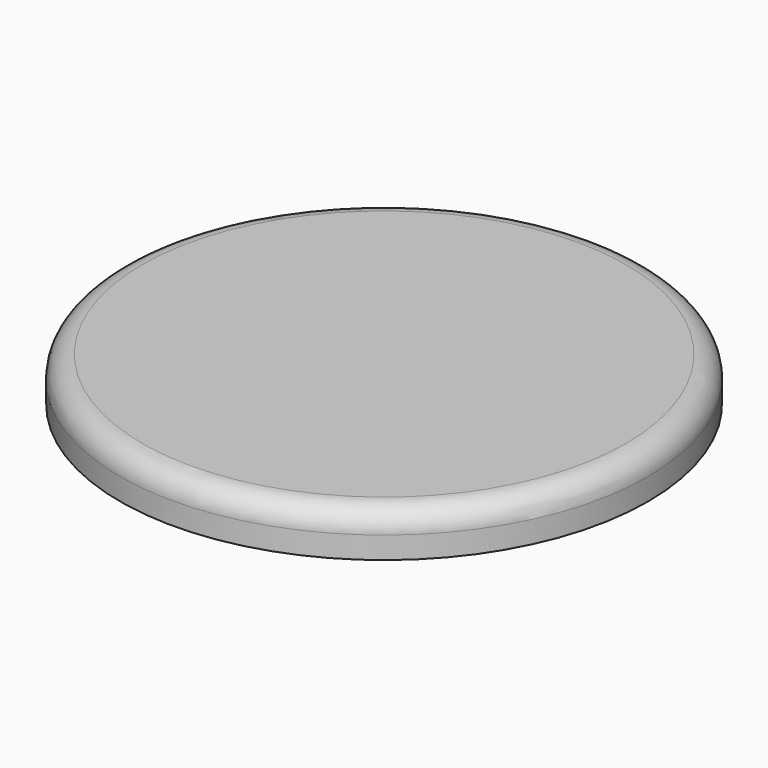
from build123d import *

# Parameters (mm, degrees)
F0_W     = 12
F0_H     = 2
F2_R     = 1
F3_R     = 5.5
F4_DEPTH = 0.5
F5_R     = 4.025
F6_DEPTH = 3
F7_R     = 1


with BuildPart() as f1:
    # F0 (on Front) → F1 (revolve)
    with BuildSketch(Plane.XZ):
        with Locations((6, 1)):
            Rectangle(F0_W, F0_H)
    revolve(axis=Axis((0, 0, 1), (0, 0, 1)))

    # F2
    f2_edges = [f1.edges().sort_by_distance(p)[0] for p in [
        (-12, 0, 2),
    ]]
    fillet(f2_edges, radius=F2_R)

    # F3 (on face) → F4 (join)
    with BuildSketch(Plane(origin=(0, 0, 0), x_dir=(1, 0, 0), z_dir=(0, 0, -1))):
        Circle(F3_R)
    extrude(amount=F4_DEPTH)

    # F5 (on face) → F6 (join)
    with BuildSketch(Plane(origin=(0, 0, -0.5), x_dir=(1, 0, 0), z_dir=(0, 0, -1))):
        Circle(F5_R)
    extrude(amount=F6_DEPTH)

    # F7
    f7_edges = [f1.edges().sort_by_distance(p)[0] for p in [
        (-4.025, 0, -3.5),
    ]]
    fillet(f7_edges, radius=F7_R)


solid = f1.part
